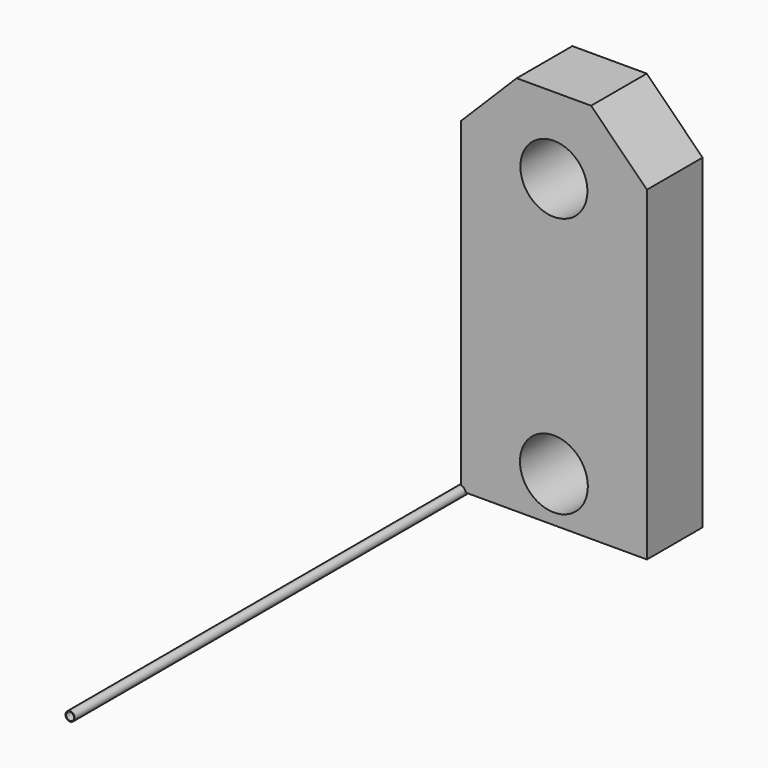
from build123d import *

# Parameters (mm, degrees)
F0_R     = 1.27
F0_R_2   = 1.077195
F1_DEPTH = 152.4
F2_DEPTH = 0.127
F3_W     = 50.8
F3_H     = 104.14
F3_R     = 9.271
F3_R_2   = 9.1567
F4_DEPTH = 18.9992
F5_SIZE  = 15.24
F6_SIZE  = 15.24


with BuildPart() as f1:
    # F0 (on Front) → F1 (new body)
    with BuildSketch(Plane.XZ):
        Circle(F0_R)
        Circle(F0_R_2, mode=Mode.SUBTRACT)
    extrude(amount=F1_DEPTH)


with BuildPart() as f2:
    # F0 (on Front) → F2 (new body)
    with BuildSketch(Plane.XZ):
        Circle(F0_R_2)
    extrude(amount=-F2_DEPTH)


with BuildPart() as f4:
    # F3 (on Front) → F4 (new body)
    with BuildSketch(Plane.XZ):
        with Locations((25.4, 52.07)):
            Rectangle(F3_W, F3_H)
        with Locations((25.4, 12.315327)):
            Circle(F3_R, mode=Mode.SUBTRACT)
        with Locations((25.4, 83.253346)):
            Circle(F3_R_2, mode=Mode.SUBTRACT)
    extrude(amount=F4_DEPTH)

    # F5
    f5_edges = [f4.edges().sort_by_distance(p)[0] for p in [
        (50.8, -9.4996, 104.14),
    ]]
    chamfer(f5_edges, length=F5_SIZE)

    # F6
    f6_edges = [f4.edges().sort_by_distance(p)[0] for p in [
        (0, -9.4996, 104.14),
    ]]
    chamfer(f6_edges, length=F6_SIZE)


solid = Compound([f1.part, f2.part, f4.part])
